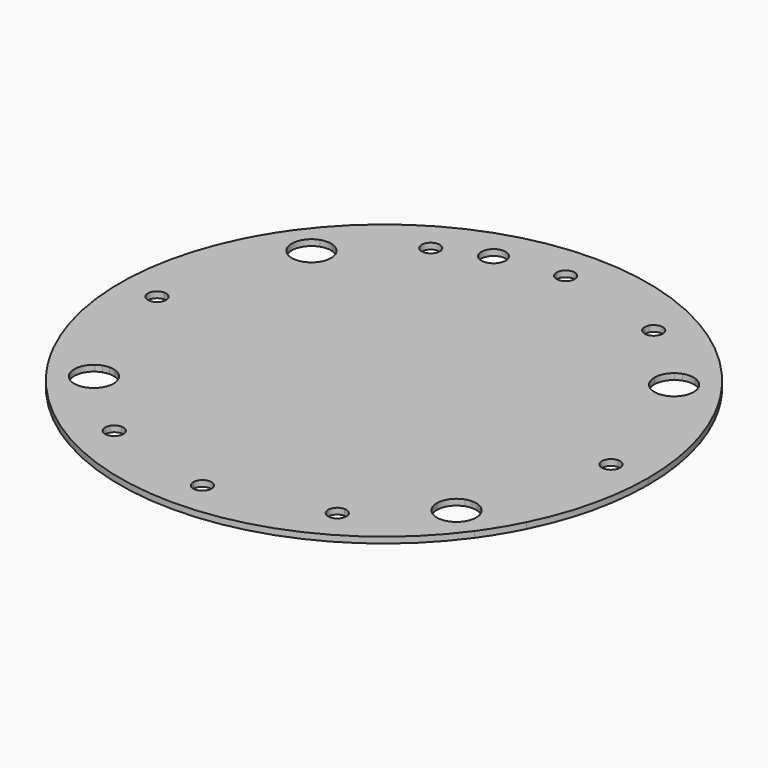
from build123d import *

# Parameters (mm, degrees)
F0_W     = 73.7878350085
F0_H     = 90
F1_DEPTH = 2


with BuildPart() as f1:
    # F0 (on Top) → F1 (new body)
    with BuildSketch(Plane.XY):
        with BuildLine():
            ThreePointArc((39.4774058129, 63.9279924987), (48.2279395476, 57.613536965), (55.983679509, 50.110691706))
            ThreePointArc((55.983679509, 50.110691706), (56.8959512618, 50.7109440052), (57.8958374587, 51.15))
            ThreePointArc((57.8958374587, 51.15), (60, 51.5), (62.1041625413, 51.15))
            Line((62.1041625413, 51.15), (70.8404665627, 51.15))
            ThreePointArc((70.8404665627, 51.15), (0, 87.3767371949), (-70.8404665627, 51.15))
            Line((-70.8404665627, 51.15), (-62.1041625413, 51.15))
            ThreePointArc((-62.1041625413, 51.15), (-60, 51.5), (-57.8958374587, 51.15))
            ThreePointArc((-57.8958374587, 51.15), (-56.8959512618, 50.7109440052), (-55.983679509, 50.110691706))
            ThreePointArc((-55.983679509, 50.110691706), (-48.2279395476, 57.613536965), (-39.4774058129, 63.9279924987))
            ThreePointArc((-39.4774058129, 63.9279924987), (-38.367024498, 68.0663988295), (-34.2516107138, 66.8736192989))
            ThreePointArc((-34.2516107138, 66.8736192989), (-29.7817001102, 68.980461967), (-25.1829669608, 70.7889254734))
            ThreePointArc((-25.1829669608, 70.7889254734), (-22.5182029217, 75.8634534118), (-17.5164058914, 73.0645558344))
            ThreePointArc((-17.5164058914, 73.0645558344), (-10.3072112299, 74.4245604037), (-2.9997471594, 75.0749979128))
            ThreePointArc((-2.9997471594, 75.0749979128), (-0.0194746205, 78.1138831224), (3, 75.1139463332))
            ThreePointArc((3, 75.1139463332), (2.9999367892, 75.0944717127), (2.9997471594, 75.0749979128))
            ThreePointArc((2.9997471594, 75.0749979128), (19.0717479179, 72.6740822163), (34.2516107138, 66.8736192989))
            ThreePointArc((34.2516107138, 66.8736192989), (37.6264062853, 68.3621830914), (39.8939175043, 65.4529804196))
            ThreePointArc((39.8939175043, 65.4529804196), (39.7879168932, 64.6625580408), (39.4774058129, 63.9279924987))
        make_face()
        with BuildLine():
            Line((-62.1041625413, 51.15), (-70.8404665627, 51.15))
            ThreePointArc((-70.8404665627, 51.15), (-74.8058433026, 45.1528516332), (-78.2647538987, 38.85))
            Line((-78.2647538987, 38.85), (-64.3112066022, 38.85))
            ThreePointArc((-64.3112066022, 38.85), (-64.0479051477, 39.2825615358), (-63.7816943003, 39.713338651))
            ThreePointArc((-63.7816943003, 39.713338651), (-66.4311844471, 45.9433274125), (-62.1041625413, 51.15))
        make_face()
        with BuildLine():
            ThreePointArc((-43.3733789322, 45), (-40.2260149068, 47.834273536), (-36.8939175043, 50.4488736365))
            Line((-36.8939175043, 50.4488736365), (-36.8939175043, 62.4529804196))
            ThreePointArc((-36.8939175043, 62.4529804196), (-38.3813710728, 62.8477008029), (-39.4774058129, 63.9279924987))
            ThreePointArc((-39.4774058129, 63.9279924987), (-48.2279395476, 57.613536965), (-55.983679509, 50.110691706))
            ThreePointArc((-55.983679509, 50.110691706), (-54.1538010985, 47.8411192169), (-53.5, 45))
            Line((-53.5, 45), (-43.3733789322, 45))
        make_face()
        with BuildLine():
            Line((-43.3733789322, 45), (-36.8939175043, 45))
            Line((-36.8939175043, 45), (-36.8939175043, 50.4488736365))
            ThreePointArc((-36.8939175043, 50.4488736365), (-40.2260149068, 47.834273536), (-43.3733789322, 45))
        make_face()
        with BuildLine():
            ThreePointArc((-63.7816943003, 39.713338651), (-64.0479051477, 39.2825615358), (-64.3112066022, 38.85))
            Line((-64.3112066022, 38.85), (-62.1041625413, 38.85))
            ThreePointArc((-62.1041625413, 38.85), (-62.9744186149, 39.2204815163), (-63.7816943003, 39.713338651))
        make_face()
        with BuildLine():
            ThreePointArc((-60, 17.5), (-53.484356292, 32.3368772771), (-43.3733789322, 45))
            Line((-43.3733789322, 45), (-53.5, 45))
            ThreePointArc((-53.5, 45), (-54.7119447564, 41.2202550693), (-57.8958374587, 38.85))
            ThreePointArc((-57.8958374587, 38.85), (-58.9334635496, 38.5880970063), (-60, 38.5))
            Line((-60, 38.5), (-60, 17.5))
        make_face()
        with BuildLine():
            ThreePointArc((-36.8939175043, 50.4488736365), (0, 62.5), (36.8939175043, 50.4488736365))
            Line((36.8939175043, 50.4488736365), (36.8939175043, 62.4529804196))
            ThreePointArc((36.8939175043, 62.4529804196), (34.7725971607, 63.3316600761), (33.8939175043, 65.4529804196))
            Line((33.8939175043, 65.4529804196), (-33.8939175043, 65.4529804196))
            ThreePointArc((-33.8939175043, 65.4529804196), (-34.7725971607, 63.3316600761), (-36.8939175043, 62.4529804196))
            Line((-36.8939175043, 62.4529804196), (-36.8939175043, 50.4488736365))
        make_face()
        with BuildLine():
            Line((-33.8939175043, 65.4529804196), (33.8939175043, 65.4529804196))
            ThreePointArc((33.8939175043, 65.4529804196), (33.9847148325, 66.1854692007), (34.2516107138, 66.8736192989))
            ThreePointArc((34.2516107138, 66.8736192989), (19.0717479179, 72.6740822163), (2.9997471594, 75.0749979128))
            ThreePointArc((2.9997471594, 75.0749979128), (0, 72.1139463332), (-2.9997471594, 75.0749979128))
            ThreePointArc((-2.9997471594, 75.0749979128), (-10.3072112299, 74.4245604037), (-17.5164058914, 73.0645558344))
            ThreePointArc((-17.5164058914, 73.0645558344), (-17.4142364393, 72.5511577989), (-17.3799844218, 72.0288141007))
            ThreePointArc((-17.3799844218, 72.0288141007), (-20.7522624117, 68.0783755075), (-25.1829669608, 70.7889254734))
            ThreePointArc((-25.1829669608, 70.7889254734), (-29.7817001102, 68.980461967), (-34.2516107138, 66.8736192989))
            ThreePointArc((-34.2516107138, 66.8736192989), (-33.9847148325, 66.1854692007), (-33.8939175043, 65.4529804196))
        make_face()
        with BuildLine():
            Line((43.3733789322, 45), (53.5, 45))
            ThreePointArc((53.5, 45), (54.1538010985, 47.8411192169), (55.983679509, 50.110691706))
            ThreePointArc((55.983679509, 50.110691706), (48.2279395476, 57.613536965), (39.4774058129, 63.9279924987))
            ThreePointArc((39.4774058129, 63.9279924987), (38.3813710728, 62.8477008029), (36.8939175043, 62.4529804196))
            Line((36.8939175043, 62.4529804196), (36.8939175043, 50.4488736365))
            ThreePointArc((36.8939175043, 50.4488736365), (40.2260149068, 47.834273536), (43.3733789322, 45))
        make_face()
        with BuildLine():
            Line((-36.8939175043, -45), (-36.8939175043, 45))
            Line((-36.8939175043, 45), (-43.3733789322, 45))
            ThreePointArc((-43.3733789322, 45), (-53.484356292, 32.3368772771), (-60, 17.5))
            Line((-60, 17.5), (-60, -17.5))
            ThreePointArc((-60, -17.5), (-53.484356292, -32.3368772771), (-43.3733789322, -45))
            Line((-43.3733789322, -45), (-36.8939175043, -45))
        make_face()
        with BuildLine():
            Line((-36.8939175043, 45), (36.8939175043, 45))
            Line((36.8939175043, 45), (36.8939175043, 50.4488736365))
            ThreePointArc((36.8939175043, 50.4488736365), (0, 62.5), (-36.8939175043, 50.4488736365))
            Line((-36.8939175043, 50.4488736365), (-36.8939175043, 45))
        make_face()
        with BuildLine():
            ThreePointArc((60, 17.5), (53.484356292, 32.3368772771), (43.3733789322, 45))
            Line((43.3733789322, 45), (36.8939175043, 45))
            Line((36.8939175043, 45), (36.8939175043, -45))
            Line((36.8939175043, -45), (43.3733789322, -45))
            ThreePointArc((43.3733789322, -45), (53.484356292, -32.3368772771), (60, -17.5))
            Line((60, -17.5), (60, 17.5))
        make_face()
        with BuildLine():
            ThreePointArc((62.5, 0), (61.8718433538, 8.8388347648), (60, 17.5))
            Line((60, 17.5), (60, -17.5))
            ThreePointArc((60, -17.5), (61.8718433538, -8.8388347648), (62.5, 0))
        make_face()
        with BuildLine():
            ThreePointArc((57.8958374587, 38.85), (54.7119447564, 41.2202550693), (53.5, 45))
            Line((53.5, 45), (43.3733789322, 45))
            ThreePointArc((43.3733789322, 45), (53.484356292, 32.3368772771), (60, 17.5))
            Line((60, 17.5), (60, 38.5))
            ThreePointArc((60, 38.5), (58.9334635496, 38.5880970063), (57.8958374587, 38.85))
        make_face()
        with BuildLine():
            Line((36.8939175043, 45), (43.3733789322, 45))
            ThreePointArc((43.3733789322, 45), (40.2260149068, 47.834273536), (36.8939175043, 50.4488736365))
            Line((36.8939175043, 50.4488736365), (36.8939175043, 45))
        make_face()
        with BuildLine():
            ThreePointArc((-60, -17.5), (-62.5, 0), (-60, 17.5))
            Line((-60, 17.5), (-60, 38.5))
            ThreePointArc((-60, 38.5), (-61.0665364504, 38.5880970063), (-62.1041625413, 38.85))
            Line((-62.1041625413, 38.85), (-64.3112066022, 38.85))
            ThreePointArc((-64.3112066022, 38.85), (-71.9613692161, 21.6059050996), (-75.0749979128, 2.9997471594))
            ThreePointArc((-75.0749979128, 2.9997471594), (-72.9789000502, 2.1075050105), (-72.1139463332, 0))
            ThreePointArc((-72.1139463332, 0), (-72.9789000502, -2.1075050105), (-75.0749979128, -2.9997471594))
            ThreePointArc((-75.0749979128, -2.9997471594), (-71.9613692161, -21.6059050996), (-64.3112066022, -38.85))
            Line((-64.3112066022, -38.85), (-62.1041625413, -38.85))
            ThreePointArc((-62.1041625413, -38.85), (-61.0665364504, -38.5880970063), (-60, -38.5))
            Line((-60, -38.5), (-60, -17.5))
        make_face()
        with BuildLine():
            Line((-60, -17.5), (-60, 17.5))
            ThreePointArc((-60, 17.5), (-62.5, 0), (-60, -17.5))
        make_face()
        with BuildLine():
            Line((-64.3112066022, 38.85), (-78.2647538987, 38.85))
            ThreePointArc((-78.2647538987, 38.85), (-87.3767370116, -0.0056591785), (-78.2597208023, -38.860137709))
            Line((-78.2597208023, -38.860137709), (-78.2597208023, -38.85))
            Line((-78.2597208023, -38.85), (-64.3112066022, -38.85))
            ThreePointArc((-64.3112066022, -38.85), (-71.9613692161, -21.6059050996), (-75.0749979128, -2.9997471594))
            ThreePointArc((-75.0749979128, -2.9997471594), (-78.1139463332, 0), (-75.0749979128, 2.9997471594))
            ThreePointArc((-75.0749979128, 2.9997471594), (-71.9613692161, 21.6059050996), (-64.3112066022, 38.85))
        make_face()
        with BuildLine():
            ThreePointArc((66.5, 45), (65.7806147144, 42.0277124089), (63.7816943003, 39.713338651))
            ThreePointArc((63.7816943003, 39.713338651), (64.0479051477, 39.2825615358), (64.3112066022, 38.85))
            Line((64.3112066022, 38.85), (78.2647538987, 38.85))
            ThreePointArc((78.2647538987, 38.85), (74.8058433026, 45.1528516332), (70.8404665627, 51.15))
            Line((70.8404665627, 51.15), (62.1041625413, 51.15))
            ThreePointArc((62.1041625413, 51.15), (65.2880552436, 48.7797449307), (66.5, 45))
        make_face()
        with BuildLine():
            ThreePointArc((63.7816943003, 39.713338651), (62.9744186149, 39.2204815163), (62.1041625413, 38.85))
            Line((62.1041625413, 38.85), (64.3112066022, 38.85))
            ThreePointArc((64.3112066022, 38.85), (64.0479051477, 39.2825615358), (63.7816943003, 39.713338651))
        make_face()
        with BuildLine():
            ThreePointArc((62.1041625413, 38.85), (61.0665364504, 38.5880970063), (60, 38.5))
            Line((60, 38.5), (60, 17.5))
            ThreePointArc((60, 17.5), (61.8718433538, 8.8388347648), (62.5, 0))
            ThreePointArc((62.5, 0), (61.8718433538, -8.8388347648), (60, -17.5))
            Line((60, -17.5), (60, -38.5))
            ThreePointArc((60, -38.5), (61.0665364504, -38.5880970063), (62.1041625413, -38.85))
            Line((62.1041625413, -38.85), (64.3112066022, -38.85))
            ThreePointArc((64.3112066022, -38.85), (71.9613692161, -21.6059050996), (75.0749979128, -2.9997471594))
            ThreePointArc((75.0749979128, -2.9997471594), (72.1139463332, 0), (75.0749979128, 2.9997471594))
            ThreePointArc((75.0749979128, 2.9997471594), (71.9613692161, 21.6059050996), (64.3112066022, 38.85))
            Line((64.3112066022, 38.85), (62.1041625413, 38.85))
        make_face()
        with BuildLine():
            Line((78.2647538987, 38.85), (64.3112066022, 38.85))
            ThreePointArc((64.3112066022, 38.85), (71.9613692161, 21.6059050996), (75.0749979128, 2.9997471594))
            ThreePointArc((75.0749979128, 2.9997471594), (77.2214513437, 2.135046283), (78.1139463332, 0))
            ThreePointArc((78.1139463332, 0), (77.2214513437, -2.135046283), (75.0749979128, -2.9997471594))
            ThreePointArc((75.0749979128, -2.9997471594), (71.9613692161, -21.6059050996), (64.3112066022, -38.85))
            Line((64.3112066022, -38.85), (78.2647538987, -38.85))
            ThreePointArc((78.2647538987, -38.85), (85.0682462375, -19.9521348456), (87.3767371949, 0))
            ThreePointArc((87.3767371949, 0), (85.0682462375, 19.9521348456), (78.2647538987, 38.85))
        make_face()
        Rectangle(F0_W, F0_H)
        with BuildLine():
            Line((36.8939175043, -50.4488736365), (36.8939175043, -45))
            Line((36.8939175043, -45), (-36.8939175043, -45))
            Line((-36.8939175043, -45), (-36.8939175043, -50.4488736365))
            ThreePointArc((-36.8939175043, -50.4488736365), (0, -62.5), (36.8939175043, -50.4488736365))
        make_face()
        with BuildLine():
            Line((43.3733789322, -45), (36.8939175043, -45))
            Line((36.8939175043, -45), (36.8939175043, -50.4488736365))
            ThreePointArc((36.8939175043, -50.4488736365), (40.2260149068, -47.834273536), (43.3733789322, -45))
        make_face()
        with BuildLine():
            Line((-36.8939175043, -50.4488736365), (-36.8939175043, -45))
            Line((-36.8939175043, -45), (-43.3733789322, -45))
            ThreePointArc((-43.3733789322, -45), (-40.2260149068, -47.834273536), (-36.8939175043, -50.4488736365))
        make_face()
        with BuildLine():
            Line((-53.5, -45), (-43.3733789322, -45))
            ThreePointArc((-43.3733789322, -45), (-53.484356292, -32.3368772771), (-60, -17.5))
            Line((-60, -17.5), (-60, -38.5))
            ThreePointArc((-60, -38.5), (-58.9334635496, -38.5880970063), (-57.8958374587, -38.85))
            ThreePointArc((-57.8958374587, -38.85), (-54.7119447564, -41.2202550693), (-53.5, -45))
        make_face()
        with BuildLine():
            Line((36.8939175043, -62.4529804196), (36.8939175043, -50.4488736365))
            ThreePointArc((36.8939175043, -50.4488736365), (0, -62.5), (-36.8939175043, -50.4488736365))
            Line((-36.8939175043, -50.4488736365), (-36.8939175043, -62.4529804196))
            ThreePointArc((-36.8939175043, -62.4529804196), (-34.7725971607, -63.3316600761), (-33.8939175043, -65.4529804196))
            Line((-33.8939175043, -65.4529804196), (33.8939175043, -65.4529804196))
            ThreePointArc((33.8939175043, -65.4529804196), (34.7725971607, -63.3316600761), (36.8939175043, -62.4529804196))
        make_face()
        with BuildLine():
            ThreePointArc((34.2516107138, -66.8736192989), (33.9847148325, -66.1854692007), (33.8939175043, -65.4529804196))
            Line((33.8939175043, -65.4529804196), (-33.8939175043, -65.4529804196))
            ThreePointArc((-33.8939175043, -65.4529804196), (-33.9847148325, -66.1854692007), (-34.2516107138, -66.8736192989))
            ThreePointArc((-34.2516107138, -66.8736192989), (-19.0717479179, -72.6740822163), (-2.9997471594, -75.0749979128))
            ThreePointArc((-2.9997471594, -75.0749979128), (0, -72.1139463332), (2.9997471594, -75.0749979128))
            ThreePointArc((2.9997471594, -75.0749979128), (19.0717479179, -72.6740822163), (34.2516107138, -66.8736192989))
        make_face()
        with BuildLine():
            ThreePointArc((57.8958374587, -51.15), (56.8959512618, -50.7109440052), (55.983679509, -50.110691706))
            ThreePointArc((55.983679509, -50.110691706), (48.2279395476, -57.613536965), (39.4774058129, -63.9279924987))
            ThreePointArc((39.4774058129, -63.9279924987), (39.7879168932, -64.6625580408), (39.8939175043, -65.4529804196))
            ThreePointArc((39.8939175043, -65.4529804196), (37.6264062853, -68.3621830914), (34.2516107138, -66.8736192989))
            ThreePointArc((34.2516107138, -66.8736192989), (19.0717479179, -72.6740822163), (2.9997471594, -75.0749979128))
            ThreePointArc((2.9997471594, -75.0749979128), (2.9999367892, -75.0944717127), (3, -75.1139463332))
            ThreePointArc((3, -75.1139463332), (-0.0194746205, -78.1138831224), (-2.9997471594, -75.0749979128))
            ThreePointArc((-2.9997471594, -75.0749979128), (-19.0717479179, -72.6740822163), (-34.2516107138, -66.8736192989))
            ThreePointArc((-34.2516107138, -66.8736192989), (-38.367024498, -68.0663988295), (-39.4774058129, -63.9279924987))
            ThreePointArc((-39.4774058129, -63.9279924987), (-48.2279395476, -57.613536965), (-55.983679509, -50.110691706))
            ThreePointArc((-55.983679509, -50.110691706), (-56.8959512618, -50.7109440052), (-57.8958374587, -51.15))
            ThreePointArc((-57.8958374587, -51.15), (-60, -51.5), (-62.1041625413, -51.15))
            Line((-62.1041625413, -51.15), (-70.8404665627, -51.15))
            ThreePointArc((-70.8404665627, -51.15), (0, -87.3767371949), (70.8404665627, -51.15))
            Line((70.8404665627, -51.15), (62.1041625413, -51.15))
            ThreePointArc((62.1041625413, -51.15), (60, -51.5), (57.8958374587, -51.15))
        make_face()
        with BuildLine():
            Line((53.5, -45), (43.3733789322, -45))
            ThreePointArc((43.3733789322, -45), (40.2260149068, -47.834273536), (36.8939175043, -50.4488736365))
            Line((36.8939175043, -50.4488736365), (36.8939175043, -62.4529804196))
            ThreePointArc((36.8939175043, -62.4529804196), (38.3813710728, -62.8477008029), (39.4774058129, -63.9279924987))
            ThreePointArc((39.4774058129, -63.9279924987), (48.2279395476, -57.613536965), (55.983679509, -50.110691706))
            ThreePointArc((55.983679509, -50.110691706), (54.1538010985, -47.8411192169), (53.5, -45))
        make_face()
        with BuildLine():
            Line((60, -38.5), (60, -17.5))
            ThreePointArc((60, -17.5), (53.484356292, -32.3368772771), (43.3733789322, -45))
            Line((43.3733789322, -45), (53.5, -45))
            ThreePointArc((53.5, -45), (54.7119447564, -41.2202550693), (57.8958374587, -38.85))
            ThreePointArc((57.8958374587, -38.85), (58.9334635496, -38.5880970063), (60, -38.5))
        make_face()
        with BuildLine():
            ThreePointArc((-36.8939175043, -50.4488736365), (-40.2260149068, -47.834273536), (-43.3733789322, -45))
            Line((-43.3733789322, -45), (-53.5, -45))
            ThreePointArc((-53.5, -45), (-54.1538010985, -47.8411192169), (-55.983679509, -50.110691706))
            ThreePointArc((-55.983679509, -50.110691706), (-48.2279395476, -57.613536965), (-39.4774058129, -63.9279924987))
            ThreePointArc((-39.4774058129, -63.9279924987), (-38.3813710728, -62.8477008029), (-36.8939175043, -62.4529804196))
            Line((-36.8939175043, -62.4529804196), (-36.8939175043, -50.4488736365))
        make_face()
        with BuildLine():
            ThreePointArc((70.8404665627, -51.15), (74.8058433026, -45.1528516332), (78.2647538987, -38.85))
            Line((78.2647538987, -38.85), (64.3112066022, -38.85))
            ThreePointArc((64.3112066022, -38.85), (64.0479051477, -39.2825615358), (63.7816943003, -39.713338651))
            ThreePointArc((63.7816943003, -39.713338651), (65.7806147144, -42.0277124089), (66.5, -45))
            ThreePointArc((66.5, -45), (65.2880552436, -48.7797449307), (62.1041625413, -51.15))
            Line((62.1041625413, -51.15), (70.8404665627, -51.15))
        make_face()
        with BuildLine():
            Line((64.3112066022, -38.85), (62.1041625413, -38.85))
            ThreePointArc((62.1041625413, -38.85), (62.9744186149, -39.2204815163), (63.7816943003, -39.713338651))
            ThreePointArc((63.7816943003, -39.713338651), (64.0479051477, -39.2825615358), (64.3112066022, -38.85))
        make_face()
        with BuildLine():
            Line((-78.2597208023, -38.85), (-78.2597208023, -38.860137709))
            ThreePointArc((-78.2597208023, -38.860137709), (-74.8029187054, -45.1576965308), (-70.8404665627, -51.15))
            Line((-70.8404665627, -51.15), (-62.1041625413, -51.15))
            ThreePointArc((-62.1041625413, -51.15), (-66.4311844471, -45.9433274125), (-63.7816943003, -39.713338651))
            ThreePointArc((-63.7816943003, -39.713338651), (-64.0479051477, -39.2825615358), (-64.3112066022, -38.85))
            Line((-64.3112066022, -38.85), (-78.2597208023, -38.85))
        make_face()
        with BuildLine():
            ThreePointArc((-63.7816943003, -39.713338651), (-62.9744186149, -39.2204815163), (-62.1041625413, -38.85))
            Line((-62.1041625413, -38.85), (-64.3112066022, -38.85))
            ThreePointArc((-64.3112066022, -38.85), (-64.0479051477, -39.2825615358), (-63.7816943003, -39.713338651))
        make_face()
    extrude(amount=F1_DEPTH)


solid = f1.part
